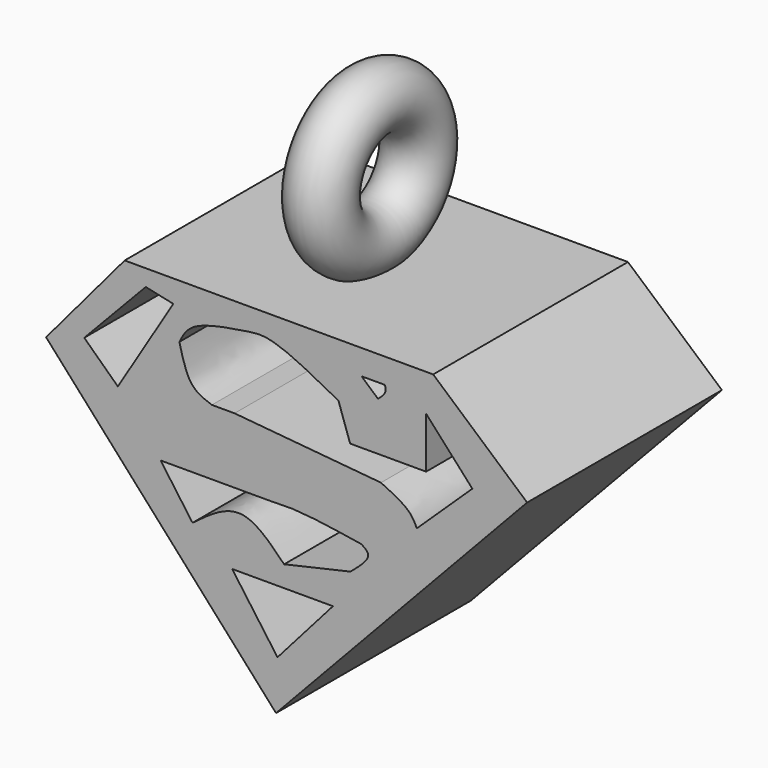
from build123d import *

# Parameters (mm, degrees)
F1_DEPTH = 12.7
F3_DEPTH = 12.7
F5_R     = 1.5875


with BuildPart() as f1:
    # F0 (on Front) → F1 (new body)
    with BuildSketch(Plane.XZ):
        Polygon((20.1922785491, 20.7995641977), (4.0991832502, 20.7995641977), (0, 15.9412715584), (11.9939092547, 2.5809677318), (25.0935649863, 16.5109376256), align=None)
    extrude(amount=F1_DEPTH)

    # F2 (on Front) → F3 (cut)
    with BuildSketch(Plane.XZ):
        with BuildLine():
            Line((17.6813211292, 19.4996427745), (16.4541602135, 19.4996427745))
            Line((16.4541602135, 19.4996427745), (17.3117336033, 18.7449781331))
            add(Edge.make_bspline(
                [(17.6813211292, 19.4996427745), (17.7032305031, 19.3807477202), (17.7525202529, 19.1132682608), (17.4691469903, 18.8765016183), (17.3117336033, 18.7449781331)],
                knots=[0, 0, 0, 0, 0.4445016245, 1, 1, 1, 1], degree=3))
        make_face()
        Polygon((5.2000629936, 19.9409676004), (1.9912079442, 16.5632255375), (3.7442932371, 14.8977944627), (6.6368840635, 19.6311250329), align=None)
        with BuildLine():
            add(Edge.make_bspline(
                [(5.9742834419, 12.2258234769), (6.1523076349, 12.2258234769), (6.7421028422, 12.2258234769), (11.5059476456, 12.2258234769), (11.614881434, 12.2258234769), (11.6279833019, 12.2258234769)],
                knots=[0, 0, 0, 0, 0.2755402737, 0.9128665611, 1, 1, 1, 1], degree=3))
            Line((5.9742834419, 12.2258234769), (7.6397149824, 9.9029857665))
            add(Edge.make_bspline(
                [(12.4168721959, 9.5523688942), (11.6750178309, 10.3115895536), (10.1897836888, 11.8315919933), (8.4903196969, 10.5462945311), (7.6397149824, 9.9029857665)],
                knots=[0, 0, 0, 0, 0.4994864742, 1, 1, 1, 1], degree=3))
            add(Edge.make_bspline(
                [(15.8792156726, 10.3412568569), (14.7251011804, 10.0782942027), (13.5709866881, 9.8153315485), (12.4168721959, 9.5523688942)],
                knots=[0, 0, 0, 0, 3.5510796342, 3.5510796342, 3.5510796342, 3.5510796342], degree=3))
            add(Edge.make_bspline(
                [(16.4489671588, 11.7875523865), (16.6239572067, 11.6720505113), (17.0837218758, 11.3685836453), (16.3399204362, 10.7341932685), (15.8792156726, 10.3412568569)],
                knots=[0, 0, 0, 0, 0.3806078624, 1, 1, 1, 1], degree=3))
            add(Edge.make_bspline(
                [(11.6279833019, 12.2258234769), (12.0919609459, 12.2459342989), (13.2381309235, 12.2956143226), (15.2509508517, 11.9771187299), (16.4489671588, 11.7875523865)],
                knots=[0, 0, 0, 0, 0.4048070121, 1, 1, 1, 1], degree=3))
        make_face()
        Polygon((14.9640385062, 8.4552066401), (9.7047826275, 8.4552066401), (12.0714474469, 5.1681715995), align=None)
        with BuildLine():
            add(Edge.make_bspline(
                [(19.8236573488, 18.8765016183), (20.6271546582, 17.9890321434), (21.4306519677, 17.1015626684), (22.2341492772, 16.2140931934)],
                knots=[0, 0, 0, 0, 3.5915024653, 3.5915024653, 3.5915024653, 3.5915024653], degree=3))
            add(Edge.make_bspline(
                [(19.8236573488, 18.8765016183), (19.8236573488, 17.9890321434), (19.8236573488, 17.1015626684), (19.8236573488, 16.2140931934)],
                knots=[0, 0, 0, 0, 2.6624084249, 2.6624084249, 2.6624084249, 2.6624084249], degree=3))
            add(Edge.make_bspline(
                [(15.8595424145, 16.2140931934), (17.1809140593, 16.2140931934), (18.502285704, 16.2140931934), (19.8236573488, 16.2140931934)],
                knots=[0, 0, 0, 0, 3.9641149342, 3.9641149342, 3.9641149342, 3.9641149342], degree=3))
            add(Edge.make_bspline(
                [(15.2509508517, 17.9890321434), (15.453814706, 17.3973858267), (15.6566785603, 16.8057395101), (15.8595424145, 16.2140931934)],
                knots=[0, 0, 0, 0, 1.8763773518, 1.8763773518, 1.8763773518, 1.8763773518], degree=3))
            add(Edge.make_bspline(
                [(10.5025572702, 19.6218397468), (10.8474319302, 19.6743356606), (11.8237986261, 19.8229556312), (13.9049250513, 18.7093118882), (15.2509508517, 17.9890321434)],
                knots=[0, 0, 0, 0, 0.3532224741, 1, 1, 1, 1], degree=3))
            add(Edge.make_bspline(
                [(6.9544250146, 17.9890321434), (7.114441899, 18.3120753944), (7.5343741338, 19.1598376469), (9.3677788629, 19.4452098076), (10.5025572702, 19.6218397468)],
                knots=[0, 0, 0, 0, 0.3810540633, 1, 1, 1, 1], degree=3))
            add(Edge.make_bspline(
                [(8.6477389559, 15.6443398446), (8.2771524999, 15.77473769), (7.431523863, 16.0722881008), (7.126036346, 17.2995838282), (6.9544250146, 17.9890321434)],
                knots=[0, 0, 0, 0, 0.4382378267, 1, 1, 1, 1], degree=3))
            add(Edge.make_bspline(
                [(9.8310709, 15.6443398446), (9.4366269186, 15.6443398446), (9.0421829373, 15.6443398446), (8.6477389559, 15.6443398446)],
                knots=[0, 0, 0, 0, 1.183331944, 1.183331944, 1.183331944, 1.183331944], degree=3))
            add(Edge.make_bspline(
                [(17.4691469903, 14.9431061), (14.9231216269, 15.1768506815), (12.3770962634, 15.410595263), (9.8310709, 15.6443398446)],
                knots=[0, 0, 0, 0, 7.6701978545, 7.6701978545, 7.6701978545, 7.6701978545], degree=3))
            add(Edge.make_bspline(
                [(19.341558218, 13.4529834613), (19.2330129493, 13.6777429293), (18.9672111523, 14.2281259282), (18.025997796, 14.6773382545), (17.4691469903, 14.9431061)],
                knots=[0, 0, 0, 0, 0.4083692056, 1, 1, 1, 1], degree=3))
            add(Edge.make_bspline(
                [(22.2341492772, 16.2140931934), (21.2699522575, 15.2937232827), (20.3057552377, 14.373353372), (19.341558218, 13.4529834613)],
                knots=[0, 0, 0, 0, 3.9988510836, 3.9988510836, 3.9988510836, 3.9988510836], degree=3))
        make_face()
    extrude(amount=F3_DEPTH, mode=Mode.SUBTRACT)

    # F5 (on offset) → F6 (revolve)
    with BuildSketch(Plane.XZ.offset(6.35)):
        with Locations((11.7986029778, 21.7750984586)):
            Circle(F5_R)
    revolve(axis=Axis((13.9984451234, -6.35, 24.9500984586), (1, 0, 0)))


solid = f1.part
